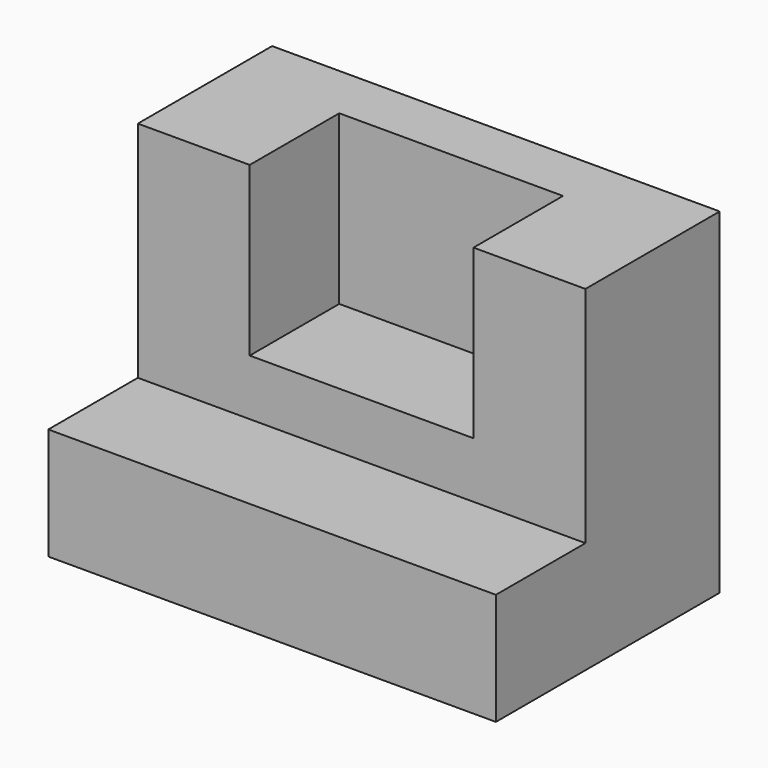
from build123d import *

# Parameters (mm, degrees)
F0_W     = 101.6
F0_H     = 76.2
F1_DEPTH = 63.5
F2_W     = 101.6
F2_H     = 25.4
F3_DEPTH = 50.8
F4_W     = 50.8
F4_H     = 25.4
F5_DEPTH = 38.1


with BuildPart() as f1:
    # F0 (on Front) → F1 (new body)
    with BuildSketch(Plane.XZ):
        with Locations((2.166614, -23.029496)):
            Rectangle(F0_W, F0_H)
    extrude(amount=F1_DEPTH)

    # F2 (on face) → F3 (cut)
    with BuildSketch(Plane.XY.offset(15.070504)):
        with Locations((2.166614, -50.8)):
            Rectangle(F2_W, F2_H)
    extrude(amount=-F3_DEPTH, mode=Mode.SUBTRACT)

    # F4 (on face) → F5 (cut)
    with BuildSketch(Plane.XY.offset(15.070504)):
        with Locations((2.166614, -25.4)):
            Rectangle(F4_W, F4_H)
    extrude(amount=-F5_DEPTH, mode=Mode.SUBTRACT)


solid = f1.part
